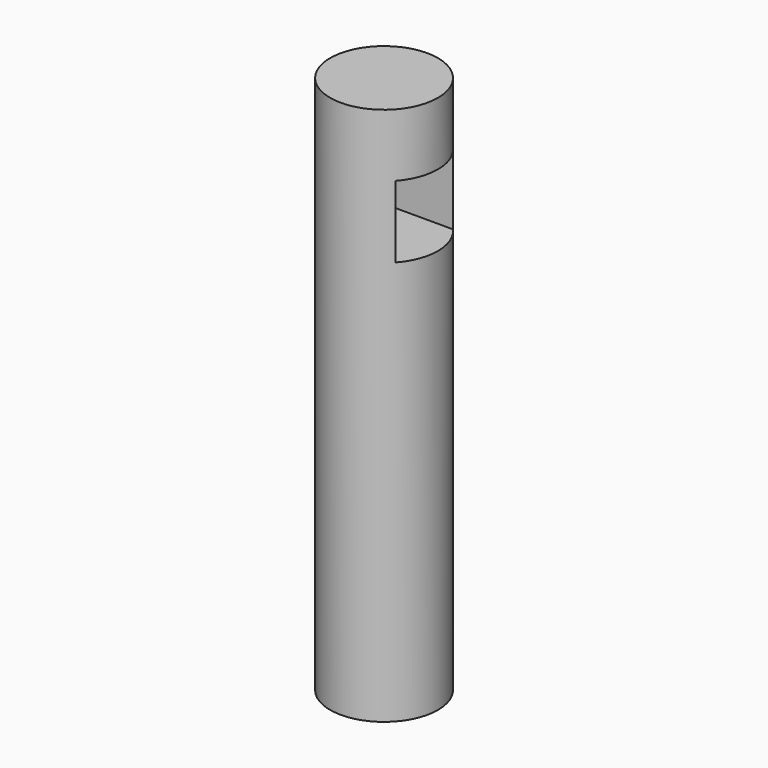
from build123d import *

# Parameters (mm, degrees)
F0_R          = 15
F1_DEPTH      = 150
F2_W          = 20
F2_H          = 20
F3_DEPTH      = 15
F3_DEPTH_BACK = 15


with BuildPart() as f1:
    # F0 (on Top) → F1 (new body)
    with BuildSketch(Plane.XY):
        Circle(F0_R)
    extrude(amount=F1_DEPTH)

    # F2 (on Right) → F3 (cut, two sides)
    with BuildSketch(Plane.YZ) as f3_sk:
        with Locations((0, 122.4774739146)):
            Rectangle(F2_W, F2_H)
    extrude(amount=-F3_DEPTH, mode=Mode.SUBTRACT)
    extrude(f3_sk.sketch, amount=F3_DEPTH_BACK, mode=Mode.SUBTRACT)


solid = f1.part
